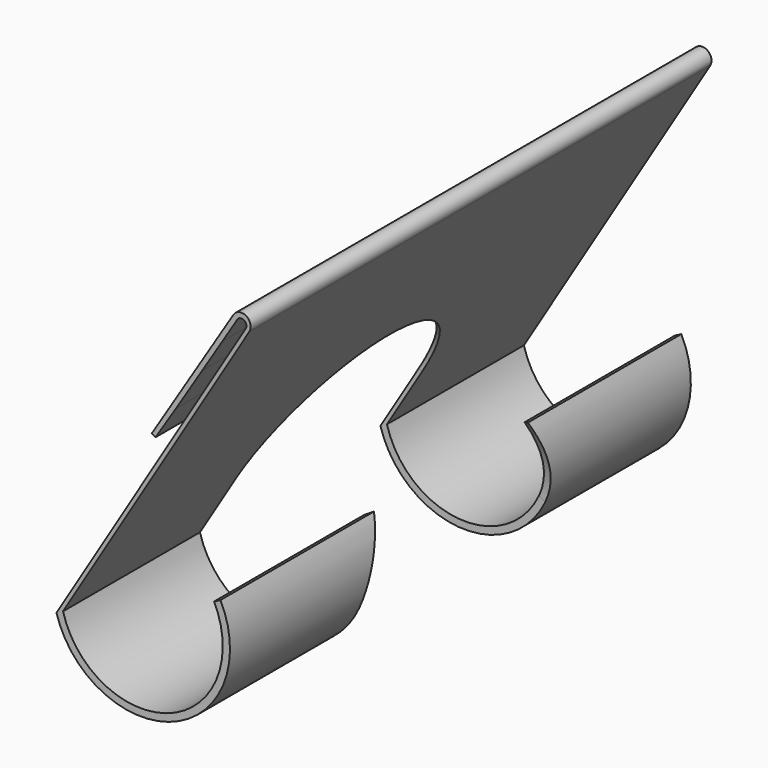
from build123d import *

# Parameters (mm, degrees)
F1_DEPTH = 138
F3_DEPTH = 49.4
F4_DEPTH = 78.6
F5_DEPTH = 25
F6_DEPTH = 25


with BuildPart() as f1:
    # F0 (on Front) → F1 (new body)
    with BuildSketch(Plane.XZ):
        with BuildLine():
            Line((-103.7269789477, -101.2127594065), (-100.3693379844, -95.8242133885))
            ThreePointArc((-100.3693379844, -95.8242133885), (-98.6798878596, -95.0745691606), (-98.2234282886, -96.8656171367))
            Line((-98.2234282886, -96.8656171367), (-132.6634080078, -153.5856345004))
            Line((-132.6634080078, -153.5856345004), (-143.4963060892, -171.4265906301))
            ThreePointArc((-143.4963060892, -171.4265906301), (-115.3707222455, -185.2538928172), (-104.207857368, -155.9685176268))
            Line((-104.207857368, -155.9685176268), (-105.7457237491, -156.770518844))
            ThreePointArc((-105.7457237491, -156.770518844), (-116.1787188571, -183.7071763743), (-141.9245898724, -170.6082820892))
            Line((-141.9245898724, -170.6082820892), (-97.3392441446, -97.179621432))
            ThreePointArc((-97.3392441446, -97.179621432), (-98.0067171309, -94.0759095516), (-101.1029781127, -94.7771338786))
            Line((-101.1029781127, -94.7771338786), (-115.8510804718, -118.4457837165))
            Line((-115.8510804718, -118.4457837165), (-120.663074613, -126.1683639899))
            Line((-120.663074613, -126.1683639899), (-119.7859828694, -126.7148860308))
            Line((-119.7859828694, -126.7148860308), (-114.8806803328, -119.0504468754))
            Line((-114.8806803328, -119.0504468754), (-108.5651855266, -108.950317898))
            Line((-108.5651855266, -108.950317898), (-103.7269789477, -101.2127594065))
        make_face()
    extrude(amount=F1_DEPTH)

    # F2 (on face) → F3 (cut)
    with BuildSketch(Plane(origin=(-28.0068430021, 0, 17.0055502417), x_dir=(0, 1, 0), z_dir=(0.8547686199, 0, -0.5190092546))):
        with BuildLine():
            Line((-41, -219.4907814326), (-41, -203.3049017191))
            ThreePointArc((-41, -203.3049017191), (-68.7405162983, -175.3061040983), (-96.9951905863, -202.7859566013))
            Line((-96.9951905863, -202.7859566013), (-96.9951905863, -203.8238468369))
            Line((-96.9951905863, -203.8238468369), (-96.9951905863, -219.4907814326))
            Line((-96.9951905863, -219.4907814326), (-41, -219.4907814326))
        make_face()
    extrude(amount=F3_DEPTH, mode=Mode.SUBTRACT)

    # F2 (on face) → F4 (cut)
    with BuildSketch(Plane(origin=(-28.0068430021, 0, 17.0055502417), x_dir=(0, 1, 0), z_dir=(0.8547686199, 0, -0.5190092546))):
        Polygon((-41, -251.147121191), (-41, -219.4907814326), (-96.9951905863, -219.4907814326), (-96.9951905863, -251.147121191), (-42.3506498337, -251.147121191), align=None)
    extrude(amount=F4_DEPTH, mode=Mode.SUBTRACT)

    # F2 (on face) → F5 (cut)
    with BuildSketch(Plane(origin=(-28.0068430021, 0, 17.0055502417), x_dir=(0, 1, 0), z_dir=(0.8547686199, 0, -0.5190092546))):
        with BuildLine():
            Line((-41, -219.4907814326), (-41, -203.3049017191))
            ThreePointArc((-41, -203.3049017191), (-68.7405162983, -175.3061040983), (-96.9951905863, -202.7859566013))
            Line((-96.9951905863, -202.7859566013), (-96.9951905863, -203.8238468369))
            Line((-96.9951905863, -203.8238468369), (-96.9951905863, -219.4907814326))
            Line((-96.9951905863, -219.4907814326), (-41, -219.4907814326))
        make_face()
    extrude(amount=-F5_DEPTH, mode=Mode.SUBTRACT)

    # F2 (on face) → F6 (cut)
    with BuildSketch(Plane(origin=(-28.0068430021, 0, 17.0055502417), x_dir=(0, 1, 0), z_dir=(0.8547686199, 0, -0.5190092546))):
        Polygon((-41, -251.147121191), (-41, -219.4907814326), (-96.9951905863, -219.4907814326), (-96.9951905863, -251.147121191), (-42.3506498337, -251.147121191), align=None)
    extrude(amount=-F6_DEPTH, mode=Mode.SUBTRACT)


solid = f1.part
